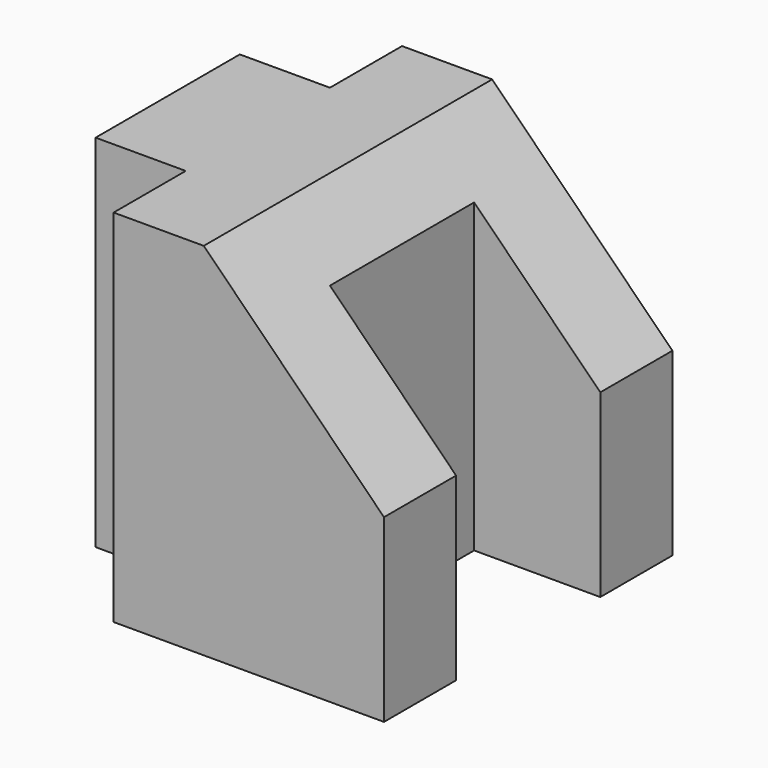
from build123d import *

# Parameters (mm, degrees)
F1_DEPTH = 50.8
F3_DEPTH = 50.801


with BuildPart() as f1:
    # F0 (on Top) → F1 (new body)
    with BuildSketch(Plane.XY):
        Polygon((0, 12.7), (0, 0), (-12.7, 0), (-12.7, -25.4), (0, -25.4), (0, -38.1), (12.7, -38.1), (12.7, 12.7), align=None)
        Polygon((38.1, 12.7), (12.7, 12.7), (12.7, -38.1), (38.1, -38.1), (38.1, -25.4), (20.32, -25.4), (20.32, 0), (38.1, 0), align=None)
    extrude(amount=F1_DEPTH)

    # F2 (on face) → F3 (cut, through all)
    with BuildSketch(Plane.XZ.offset(38.1)):
        Polygon((38.1, 50.8), (12.7, 50.8), (38.1, 25.4), align=None)
    extrude(amount=-F3_DEPTH, mode=Mode.SUBTRACT)


solid = f1.part
